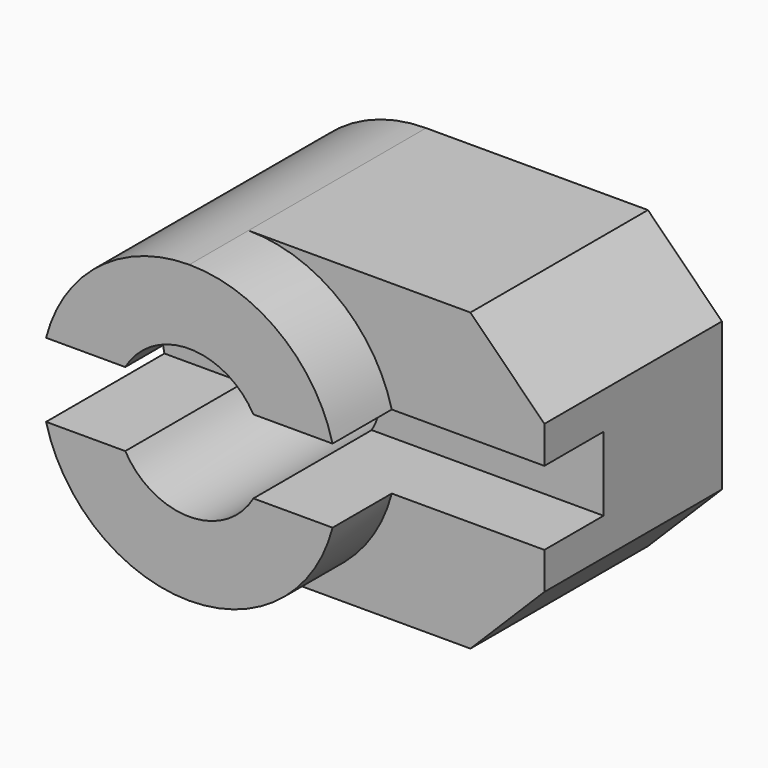
from build123d import *

# Parameters (mm, degrees)
F0_R     = 5
F1_DEPTH = 20
F2_DEPTH = 15
F3_SIZE  = 5
F4_W     = 10
F4_H     = 5
F5_DEPTH = 20


with BuildPart() as f1:
    # F0 (on Front) → F1 (new body)
    with BuildSketch(Plane.XZ):
        with BuildLine():
            ThreePointArc((0, -10), (7.071068, -7.071068), (10, 0))
            ThreePointArc((10, 0), (7.071068, 7.071068), (0, 10))
            ThreePointArc((0, 10), (-10, 0), (0, -10))
        make_face()
        Circle(F0_R, mode=Mode.SUBTRACT)
    extrude(amount=F1_DEPTH)

    # F0 (on Front) → F2 (join)
    with BuildSketch(Plane.XZ):
        with BuildLine():
            ThreePointArc((0, 10), (7.071068, 7.071068), (10, 0))
            ThreePointArc((10, 0), (7.071068, -7.071068), (0, -10))
            Line((0, -10), (20, -10))
            Line((20, -10), (20, 10))
            Line((20, 10), (0, 10))
        make_face()
    extrude(amount=F2_DEPTH)

    # F3
    f3_edges = [f1.edges().sort_by_distance(p)[0] for p in [
        (20, -7.5, 10),
        (20, -7.5, -10),
    ]]
    chamfer(f3_edges, length=F3_SIZE)

    # F4 (on Right) → F5 (cut, symmetric)
    with BuildSketch(Plane.YZ):
        with Locations((-15, 0)):
            Rectangle(F4_W, F4_H)
    extrude(amount=F5_DEPTH, both=True, mode=Mode.SUBTRACT)


solid = f1.part
